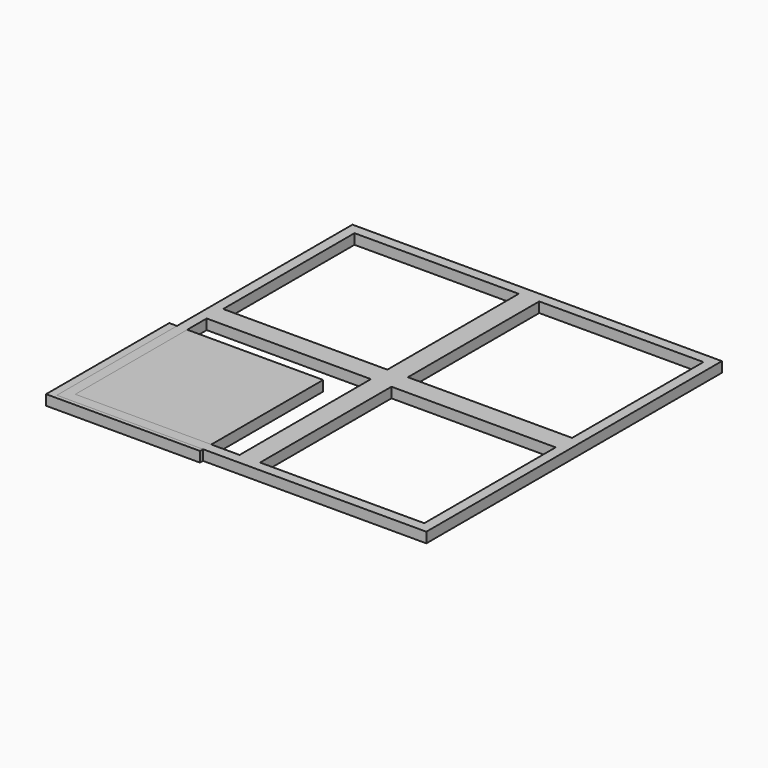
from build123d import *

# Parameters (mm, degrees)
F0_W     = 150
F0_H     = 150
F1_DEPTH = 10
F2_W     = 360
F2_H     = 360
F2_W_2   = 160
F2_H_2   = 160
F3_DEPTH = 10


with BuildPart() as f1:
    # F0 (on Top) → F1 (new body)
    with BuildSketch(Plane.XY):
        Rectangle(F0_W, F0_H)
    extrude(amount=F1_DEPTH)


with BuildPart() as f3:
    # F2 (on Top) → F3 (new body)
    with BuildSketch(Plane.XY):
        with Locations((112.540918, 108.719992)):
            Rectangle(F2_W, F2_H)
        with Locations((22.540918, 18.719992)):
            Rectangle(F2_W_2, F2_H_2, mode=Mode.SUBTRACT)
        with Locations((202.540918, 18.719992)):
            Rectangle(F2_W_2, F2_H_2, mode=Mode.SUBTRACT)
        with Locations((22.540918, 198.719992)):
            Rectangle(F2_W_2, F2_H_2, mode=Mode.SUBTRACT)
        with Locations((202.540918, 198.719992)):
            Rectangle(F2_W_2, F2_H_2, mode=Mode.SUBTRACT)
    extrude(amount=F3_DEPTH)


solid = Compound([f1.part, f3.part])
